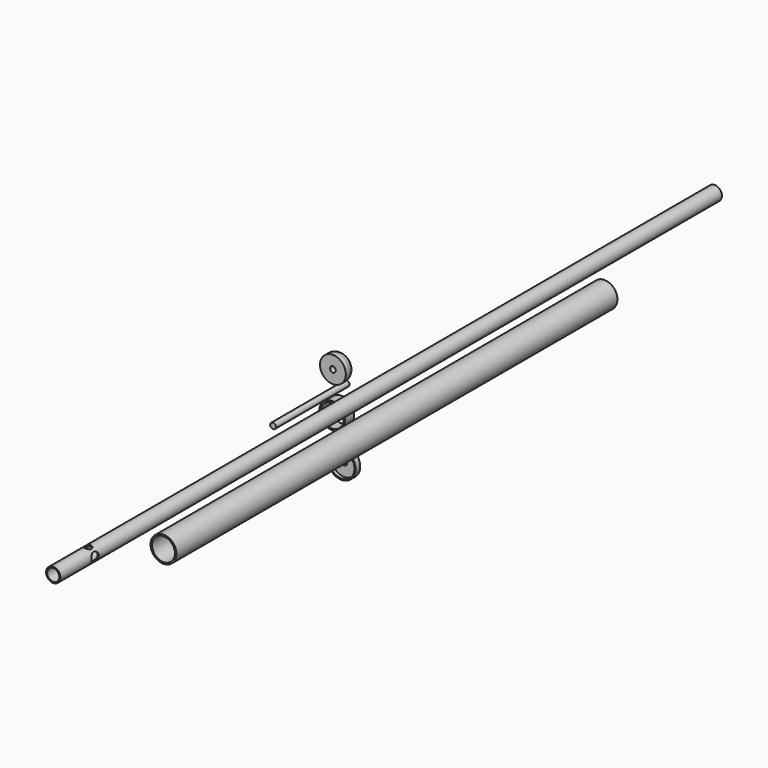
from build123d import *

# Parameters (mm, degrees)
F0_R      = 14.2875
F0_R_2    = 12.6365
F1_DEPTH  = 304.8
F0_R_3    = 7.9375
F0_R_4    = 6.6929
F2_DEPTH  = 457.2
F0_R_5    = 3.175
F3_DEPTH  = 12.7
F4_DEPTH  = 6.35
F5_R      = 7.62
F6_DEPTH  = 101.6
F7_DEPTH  = 6.35
F8_DEPTH  = 2.54
F0_R_6    = 15.5575
F9_DEPTH  = 6.35
F10_R     = 5.08
F11_DEPTH = 12.7
F12_R     = 3.811671
F13_DEPTH = 55.40992


with BuildPart() as f1:
    # F0 (on Front) → F1 (new body, symmetric)
    with BuildSketch(Plane.XZ):
        Circle(F0_R)
        Circle(F0_R_2, mode=Mode.SUBTRACT)
    extrude(amount=F1_DEPTH, both=True)


with BuildPart() as f2:
    # F0 (on Front) → F2 (new body, symmetric)
    with BuildSketch(Plane.XZ):
        with Locations((0, 36.90384)):
            Circle(F0_R_3)
        with Locations((0, 36.90384)):
            Circle(F0_R_4, mode=Mode.SUBTRACT)
    extrude(amount=F2_DEPTH, both=True)

    # F10 (on Right) → F11 (cut, symmetric)
    with BuildSketch(Plane.YZ):
        with Locations((-409.194, 36.903838)):
            Circle(F10_R)
    extrude(amount=F11_DEPTH, both=True, mode=Mode.SUBTRACT)

    # F12 (on Top) → F13 (cut, through all)
    with BuildSketch(Plane.XY):
        with Locations((0, -409.194)):
            Circle(F12_R)
    extrude(amount=F13_DEPTH, mode=Mode.SUBTRACT)


with BuildPart() as f3:
    # F0 (on Front) → F3 (new body)
    with BuildSketch(Plane.XZ):
        with Locations((-46.331372, 41.12142)):
            Circle(F0_R)
        with Locations((-46.331372, 41.12142)):
            Circle(F0_R_5, mode=Mode.SUBTRACT)
    extrude(amount=F3_DEPTH)

    # F0 (on Front) → F4 (join)
    with BuildSketch(Plane.XZ):
        with Locations((-46.331372, 41.12142)):
            Circle(F0_R_5)
    extrude(amount=F4_DEPTH)

    # F5
    f5_edges = [f3.edges().sort_by_distance(p)[0] for p in [
        (-60.618872, 0, 41.12142),
    ]]
    fillet(f5_edges, radius=F5_R)


with BuildPart() as f6:
    # F0 (on Front) → F6 (new body)
    with BuildSketch(Plane.XZ):
        with Locations((-41.369513, 24.003001)):
            Circle(F0_R_5)
    extrude(amount=F6_DEPTH)


with BuildPart() as f7:
    # F0 (on Front) → F7 (new body, symmetric)
    with BuildSketch(Plane.XZ):
        with Locations((-52.285604, -8.249093)):
            Circle(F0_R)
        with Locations((-52.285604, -8.249093)):
            Circle(F0_R_2, mode=Mode.SUBTRACT)
    extrude(amount=F7_DEPTH, both=True)


with BuildPart() as f8:
    # F0 (on Front) → F8 (new body)
    with BuildSketch(Plane.XZ):
        with Locations((-41.865699, -51.913466)):
            Circle(F0_R)
        with Locations((-41.865699, -51.913466)):
            Circle(F0_R_5, mode=Mode.SUBTRACT)
    extrude(amount=F8_DEPTH)

    # F0 (on Front) → F9 (join)
    with BuildSketch(Plane.XZ):
        with Locations((-41.865699, -51.913466)):
            Circle(F0_R_6)
        with Locations((-41.865699, -51.913466)):
            Circle(F0_R, mode=Mode.SUBTRACT)
    extrude(amount=F9_DEPTH)


solid = Compound([f1.part, f2.part, f3.part, f6.part, f7.part, f8.part])
